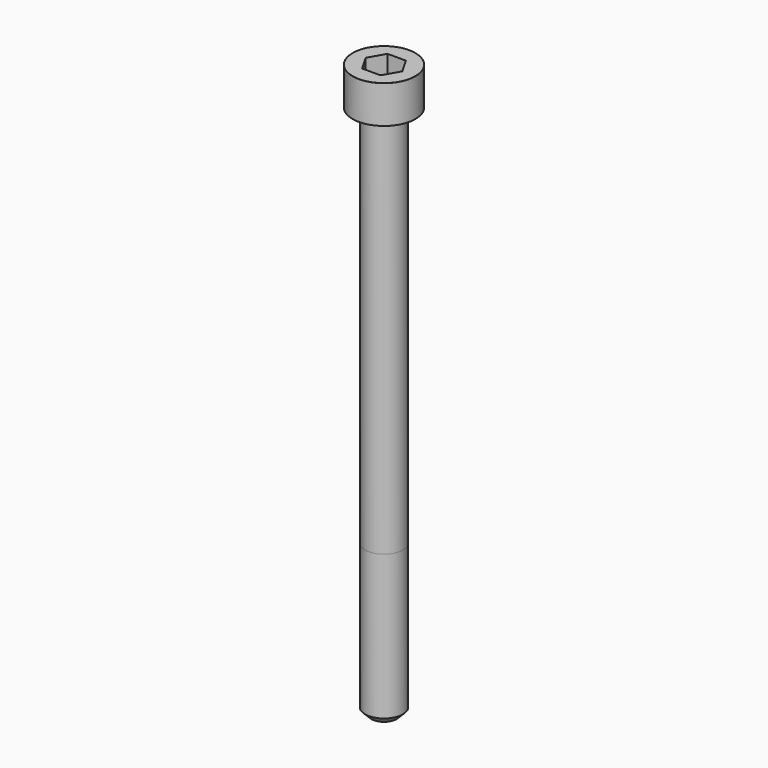
from build123d import *

# Parameters (mm, degrees)
POCKET_DEPTH = 5.06


with BuildPart() as part:
    # Sketch → Revolve (revolve)
    with BuildSketch(Plane.YZ):
        with BuildLine():
            Line((2.999, 0), (5, 0))
            Line((5, 0), (5, 5.97229))
            ThreePointArc((5, 5.97229), (4.991884, 5.991884), (4.97229, 6))
            Line((4.97229, 6), (0, 6))
            Line((0, -85), (0, 6))
            Line((2, -85), (0, -85))
            Line((3, -84), (2, -85))
            Line((3, -61), (3, -84))
            Line((2.999, 0), (3, -61))
        make_face()
    revolve(axis=Axis((0, 0, 0), (0, 0, 1)))

    # Sketch001 → Pocket (cut)
    with BuildSketch(Plane.XY.offset(6)):
        Polygon((2.921392, 0), (1.460696, 2.53), (-1.460696, 2.53), (-2.921392, 0), (-1.460696, -2.53), (1.460696, -2.53), align=None)
    extrude(amount=-POCKET_DEPTH, mode=Mode.SUBTRACT)


solid = part.part
